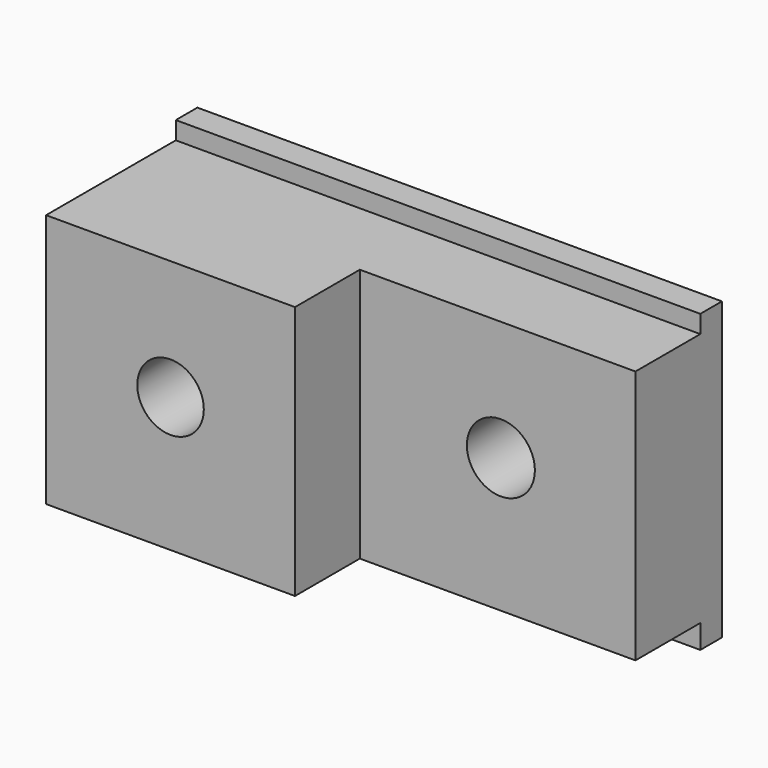
from build123d import *

# Parameters (mm, degrees)
F0_W     = 123.2712268829
F0_H     = 69.5435777307
F1_DEPTH = 25.4
F2_W     = 123.2712268829
F2_H     = 4.1865706444
F2_H_2   = 5.5820941925
F3_DEPTH = 19.05
F4_W     = 58.4956854582
F4_H     = 59.7749128938
F5_DEPTH = 19.05
F6_R     = 7.8204757045
F7_DEPTH = 84.836
F8_R     = 7.993016925
F9_DEPTH = 31.242


with BuildPart() as f1:
    # F0 (on Front) → F1 (new body)
    with BuildSketch(Plane.XZ):
        with Locations((3.1399279833, -2.4421662092)):
            Rectangle(F0_W, F0_H)
    extrude(amount=F1_DEPTH)

    # F2 (on face) → F3 (cut)
    with BuildSketch(Plane.XZ.offset(25.4)):
        with Locations((3.1399279833, 30.2363373339)):
            Rectangle(F2_W, F2_H)
        with Locations((3.1399279833, -34.4229079783)):
            Rectangle(F2_W, F2_H_2)
    extrude(amount=-F3_DEPTH, mode=Mode.SUBTRACT)

    # F4 (on face) → F5 (join)
    with BuildSketch(Plane.XZ.offset(25.4)):
        with Locations((-29.2478427291, -1.7444044352)):
            Rectangle(F4_W, F4_H)
    extrude(amount=F5_DEPTH)

    # F6 (on face) → F7 (cut)
    with BuildSketch(Plane.XZ.offset(44.45)):
        with Locations((-29.2478427291, 0)):
            Circle(F6_R)
    extrude(amount=-F7_DEPTH, mode=Mode.SUBTRACT)

    # F8 (on face) → F9 (cut)
    with BuildSketch(Plane.XZ.offset(25.4)):
        with Locations((33.1436805427, 0)):
            Circle(F8_R)
    extrude(amount=-F9_DEPTH, mode=Mode.SUBTRACT)


solid = f1.part
